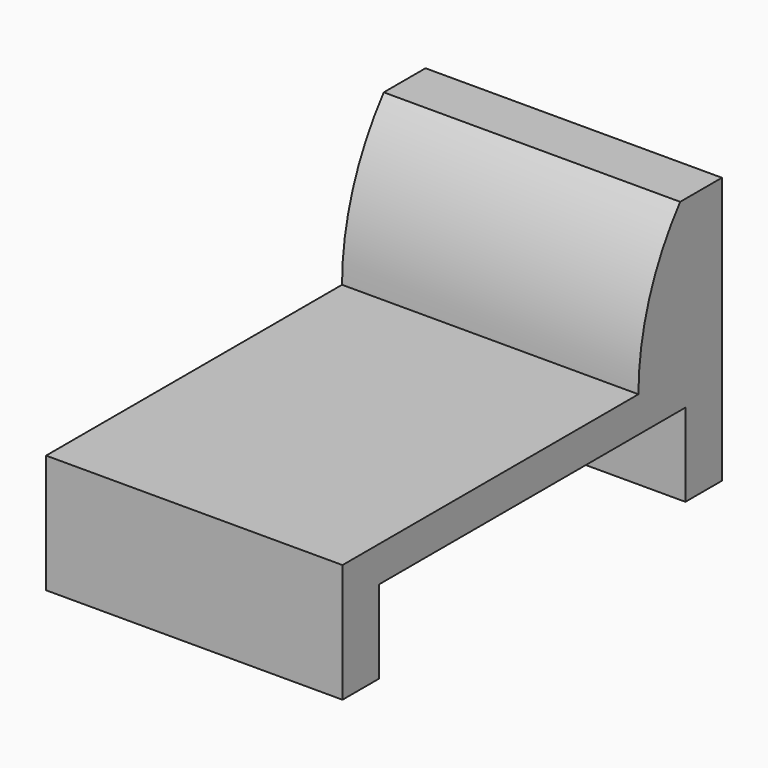
from build123d import *

# Parameters (mm, degrees)
F0_W     = 12.7
F0_H     = 20.32
F1_DEPTH = 5.08
F2_W     = 12.7
F2_H     = 4.4710185971
F3_DEPTH = 6.35
F5_DEPTH = 25.4
F6_W     = 16.4084
F6_H     = 3.556
F7_DEPTH = 25.4


with BuildPart() as f1:
    # F0 (on Top) → F1 (new body)
    with BuildSketch(Plane.XY):
        with Locations((0, 2.5246988346)):
            Rectangle(F0_W, F0_H)
    extrude(amount=F1_DEPTH)

    # F2 (on face) → F3 (join)
    with BuildSketch(Plane.XY.offset(5.08)):
        with Locations((0, 10.4491895361)):
            Rectangle(F2_W, F2_H)
    extrude(amount=F3_DEPTH)

    # F4 (on face) → F5 (cut)
    with BuildSketch(Plane.YZ.offset(6.35)):
        with BuildLine():
            ThreePointArc((8.2136802375, 5.08), (8.788877567, 8.4460066037), (10.4491895361, 11.43))
            Line((10.4491895361, 11.43), (8.2136802375, 11.43))
            Line((8.2136802375, 11.43), (8.2136802375, 5.08))
        make_face()
    extrude(amount=-F5_DEPTH, mode=Mode.SUBTRACT)

    # F6 (on face) → F7 (cut)
    with BuildSketch(Plane.YZ.offset(6.35)):
        with Locations((2.5246988346, 1.778)):
            Rectangle(F6_W, F6_H)
    extrude(amount=-F7_DEPTH, mode=Mode.SUBTRACT)


solid = f1.part
